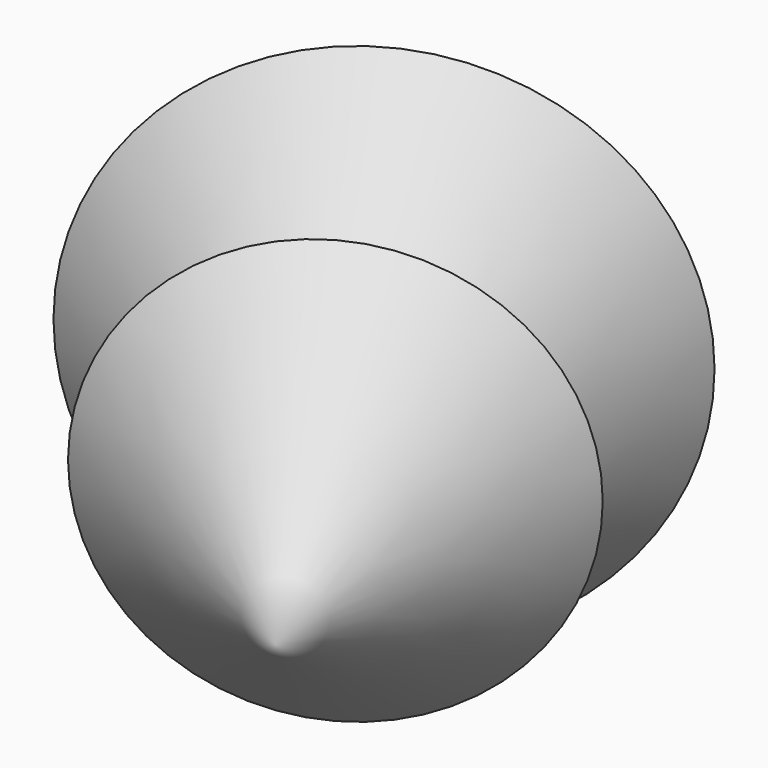
from build123d import *


with BuildPart() as f1:
    # F0 (on Top) → F1 (revolve)
    with BuildSketch(Plane.XY):
        Polygon((-143.5940553443, 96.4263659024), (-64.7635832429, 60.1030886173), (-40.8013239503, 73.5892578959), (-75.2898557049, 134.8685673463), align=None)
    revolve(axis=Axis((-58.0455898276, 104.2289126211, 0), (-0.4904656207, 0.8714605412, 0)))

    # F4 (on Top) → F5 (revolve)
    with BuildSketch(Plane.XY):
        Polygon((0, 0), (-40.8504121006, 73.5372751951), (-96.4467450976, 42.9359376431), align=None)
    revolve(axis=Axis((-20.4252060503, 36.7686375976, 0), (0.4856099594, -0.874175593, 0)))


with BuildPart() as f3:
    # F2 (on Top) → F3 (revolve)
    with BuildSketch(Plane.XY):
        Polygon((-96.2362736464, 123.3206540346), (-74.2306772893, 135.2972002293), (-98.7256292395, 180.3040007409), (-120.6047495267, 168.0950685733), align=None)
    revolve(axis=Axis((-86.4781532644, 157.8006004851, 0), (-0.4780365342, 0.8783399524, 0)))


solid = Compound([f1.part, f3.part])
